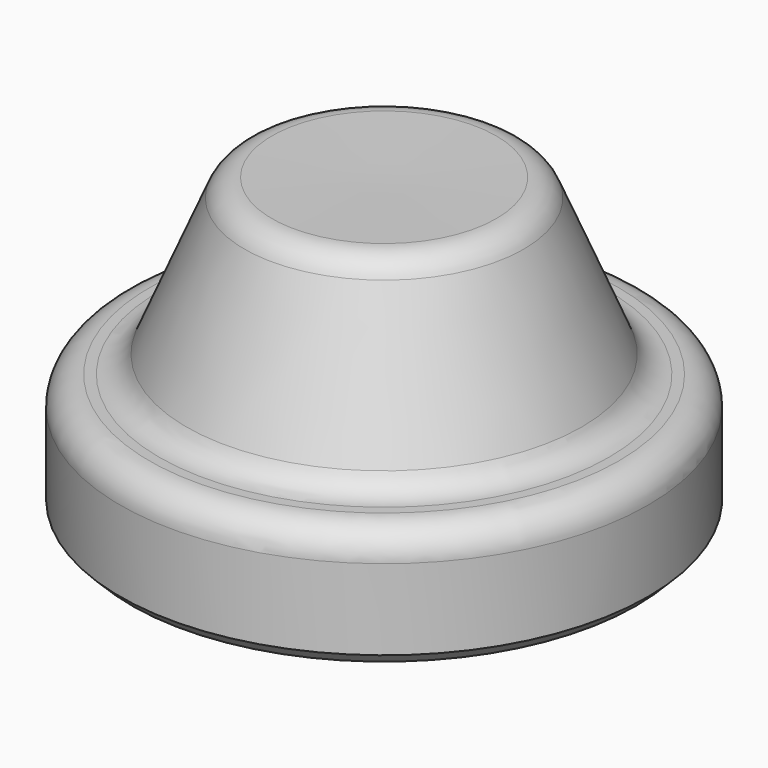
from build123d import *

# Parameters (mm, degrees)
F2_SIZE = 2


with BuildPart() as f1:
    # F0 (on Front) → F1 (revolve)
    with BuildSketch(Plane.XZ):
        with BuildLine():
            Line((19.120241, 50.317076), (0, 50))
            Line((0, 50), (0, 0))
            Line((0, 0), (45, 0))
            Line((45, 0), (45, 15.742122))
            ThreePointArc((45, 15.742122), (43.535534, 19.277656), (40, 20.742122))
            Line((40, 20.742122), (38.317099, 20.742122))
            ThreePointArc((38.317099, 20.742122), (35.552971, 21.575637), (33.71042, 23.798285))
            Line((33.71042, 23.798285), (23.809825, 47.2616))
            ThreePointArc((23.809825, 47.2616), (21.932636, 49.507021), (19.120241, 50.317076))
        make_face()
    revolve(axis=Axis((0, 0, 15.365856), (0, 0, -1)))

    # F2
    f2_edges = [f1.edges().sort_by_distance(p)[0] for p in [
        (-45, 0, 0),
    ]]
    chamfer(f2_edges, length=F2_SIZE)


solid = f1.part
